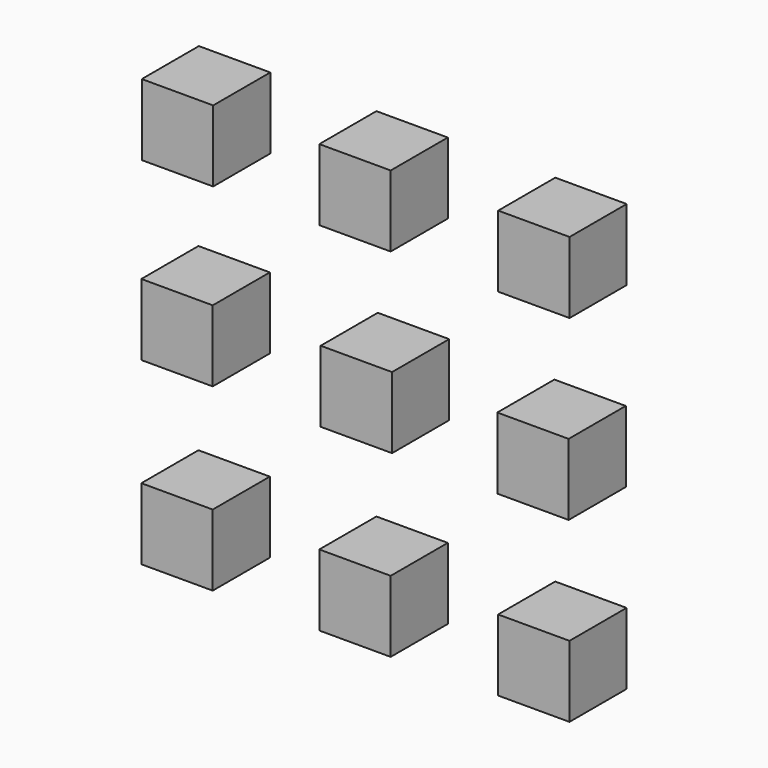
from build123d import *

# Parameters (mm, degrees)
F0_W     = 25.4
F0_H     = 25.4
F1_W     = 25.4
F1_H     = 25.4
F2_W     = 25.4
F2_H     = 25.4
F3_W     = 25.4
F3_H     = 25.4
F4_W     = 25.4
F4_H     = 25.4
F8_W     = 25.4
F8_H     = 25.4
F6_W     = 25.4
F6_H     = 25.4
F5_W     = 25.4
F5_H     = 25.4
F7_W     = 25.4
F7_H     = 25.4
F9_DEPTH = 25.4


with BuildPart() as f9:
    # F0 (on Front) + F1 (on Front) + F2 (on Front) + F3 (on Front) + F4 (on Front) + F8 (on Front) + F6 (on Front) + F5 (on Front) + F7 (on Front) → F9 (new body)
    with BuildSketch(Plane.XZ):
        with Locations((-63.232632, 63.232632)):
            Rectangle(F0_W, F0_H)
    with BuildSketch(Plane.XZ):
        with Locations((-63.394596, -63.42288)):
            Rectangle(F1_W, F1_H)
    with BuildSketch(Plane.XZ):
        with Locations((-0.066841, 63.394592)):
            Rectangle(F2_W, F2_H)
    with BuildSketch(Plane.XZ):
        with Locations((-0.066841, -63.584841)):
            Rectangle(F3_W, F3_H)
    with BuildSketch(Plane.XZ):
        with Locations((-63.394596, 0.552733)):
            Rectangle(F4_W, F4_H)
    with BuildSketch(Plane.XZ):
        with Locations((63.260912, -0.095121)):
            Rectangle(F8_W, F8_H)
    with BuildSketch(Plane.XZ):
        with Locations((63.584833, 63.260912)):
            Rectangle(F6_W, F6_H)
    with BuildSketch(Plane.XZ):
        with Locations((0.419048, 0.390768)):
            Rectangle(F5_W, F5_H)
    with BuildSketch(Plane.XZ):
        with Locations((63.55656, -63.260912)):
            Rectangle(F7_W, F7_H)
    extrude(amount=F9_DEPTH)


solid = f9.part
